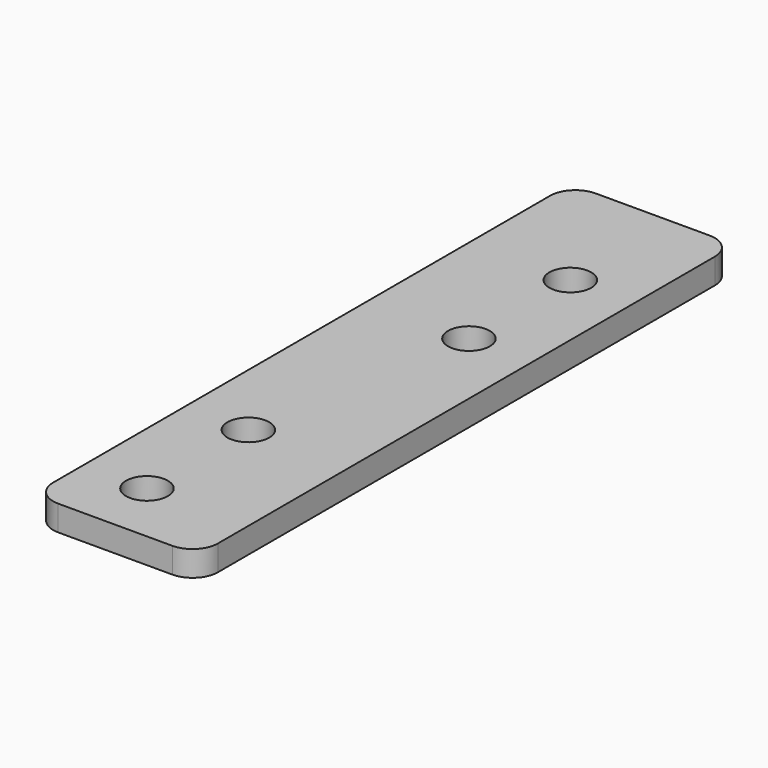
from build123d import *

# Parameters (mm, degrees)
SKETCH_W  = 13
SKETCH_H  = 53
SKETCH_R  = 1.65
PAD_DEPTH = 2
FILLET_R  = 2


with BuildPart() as part:
    # Sketch → Pad (new body)
    with BuildSketch(Plane.XY):
        with Locations((-1.5, -6.5)):
            Rectangle(SKETCH_W, SKETCH_H)
        Circle(SKETCH_R, mode=Mode.SUBTRACT)
        with Locations((0, 10)):
            Circle(SKETCH_R, mode=Mode.SUBTRACT)
        with Locations((-3, -28)):
            Circle(SKETCH_R, mode=Mode.SUBTRACT)
        with Locations((-3, -18)):
            Circle(SKETCH_R, mode=Mode.SUBTRACT)
    extrude(amount=PAD_DEPTH)

    # Fillet
    fillet_edges = [part.edges().sort_by_distance(p)[0] for p in [
        (5, -33, 1),
        (-8, -33, 1),
        (5, 20, 1),
        (-8, 20, 1),
    ]]
    fillet(fillet_edges, radius=FILLET_R)


solid = part.part
